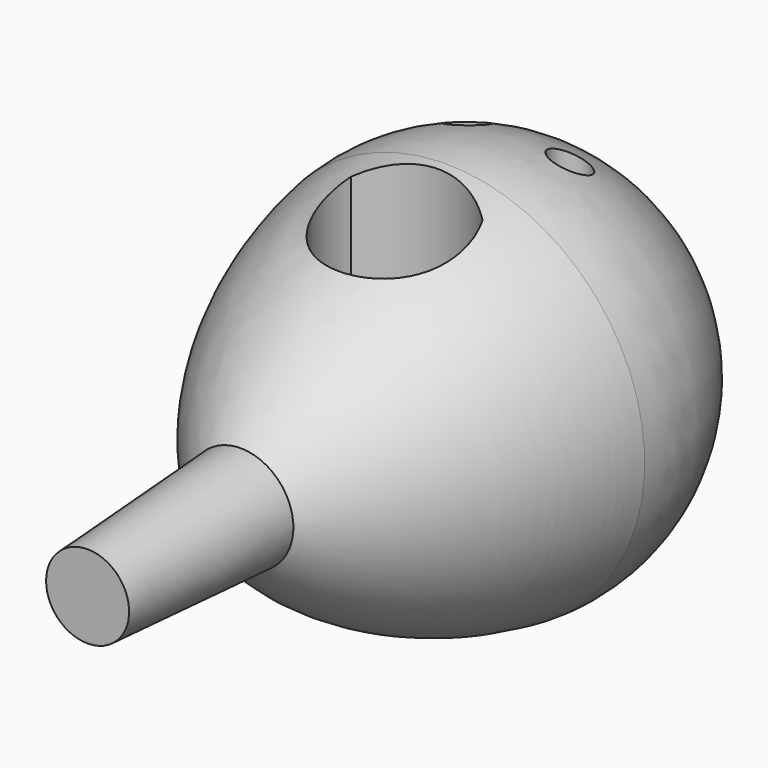
from build123d import *

# Parameters (mm, degrees)
F2_R     = 4
F3_DEPTH = 41.765352
F4_DEPTH = 41.765352


with BuildPart() as f1:
    # F0 (on Top) → F1 (revolve)
    with BuildSketch(Plane.XY):
        Polygon((0, -39.931846), (0, 0), (-11, 0), (-8.665983, -39.931846), align=None)
        with BuildLine():
            Line((-11, 0), (0, 0))
            Line((0, 0), (0, 100.485936))
            ThreePointArc((0, 100.485936), (-31.287978, 86.386065), (-41.449975, 53.606838))
            ThreePointArc((-41.449975, 53.606838), (-31.054628, 24.060067), (-11, 0))
        make_face()
    revolve(axis=Axis((0, 50.242968, 0), (0, -1, 0)))

    # F2 (on Top) → F3 (cut, through all)
    with BuildSketch(Plane.XY):
        with Locations((10.89077, 72.268995)):
            Circle(F2_R)
        with Locations((-10.376575, 72.137559)):
            Circle(F2_R)
        with BuildLine():
            ThreePointArc((12.932606, 46.952406), (-0.683245, 51.822724), (-14.113051, 46.460665))
            ThreePointArc((-14.113051, 46.460665), (-0.224508, 26.592261), (12.932606, 46.952406))
        make_face()
    extrude(amount=-F3_DEPTH, mode=Mode.SUBTRACT)

    # F2 (on Top) → F4 (cut, through all)
    with BuildSketch(Plane.XY):
        with Locations((10.89077, 72.268995)):
            Circle(F2_R)
        with Locations((-10.376575, 72.137559)):
            Circle(F2_R)
        with BuildLine():
            ThreePointArc((12.932606, 46.952406), (-0.683245, 51.822724), (-14.113051, 46.460665))
            ThreePointArc((-14.113051, 46.460665), (-0.224508, 26.592261), (12.932606, 46.952406))
        make_face()
    extrude(amount=F4_DEPTH, mode=Mode.SUBTRACT)


solid = f1.part
